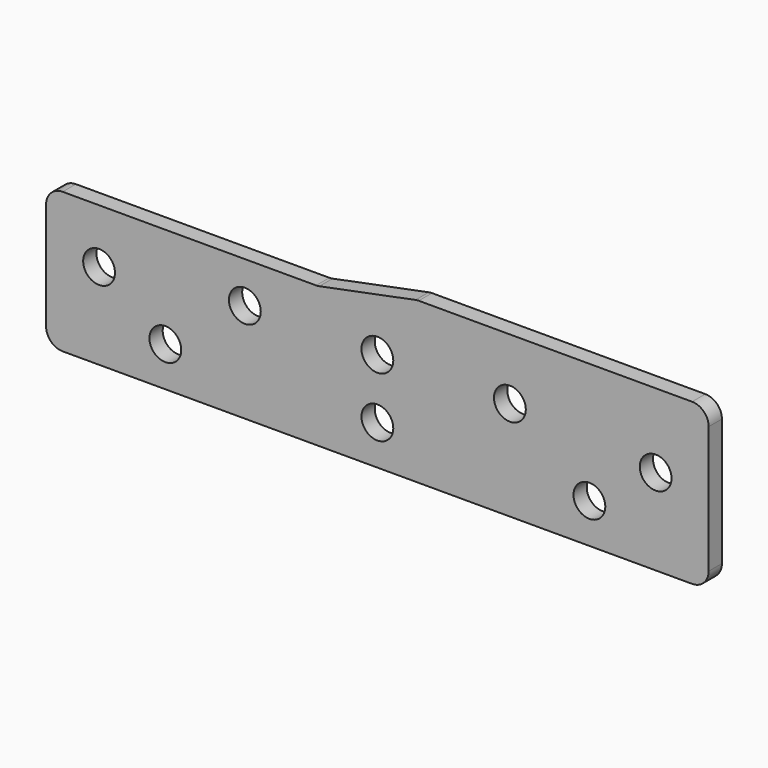
from build123d import *

# Parameters (mm, degrees)
F0_R     = 3.048
F1_DEPTH = 3.175
F2_R     = 3.175


with BuildPart() as f1:
    # F0 (on Front) → F1 (new body)
    with BuildSketch(Plane.XZ):
        with BuildLine():
            ThreePointArc((-63.5, 3.175), (-62.570064, 0.929936), (-60.325, 0))
            Line((-60.325, 0), (60.325, 0))
            ThreePointArc((60.325, 0), (62.570064, 0.929936), (63.5, 3.175))
            Line((63.5, 3.175), (63.5, 27.559))
            ThreePointArc((63.5, 27.559), (62.570064, 29.804064), (60.325, 30.734))
            Line((60.325, 30.734), (7.62, 30.734))
            Line((7.62, 30.734), (-11.43, 26.924))
            Line((-11.43, 26.924), (-60.325, 26.924))
            ThreePointArc((-60.325, 26.924), (-62.570064, 25.994064), (-63.5, 23.749))
            Line((-63.5, 23.749), (-63.5, 3.175))
        make_face()
        with Locations((-40.64, 7.62)):
            Circle(F0_R, mode=Mode.SUBTRACT)
        with Locations((0, 7.62)):
            Circle(F0_R, mode=Mode.SUBTRACT)
        with Locations((40.64, 7.62)):
            Circle(F0_R, mode=Mode.SUBTRACT)
        with Locations((-53.34, 16.51)):
            Circle(F0_R, mode=Mode.SUBTRACT)
        with Locations((-25.4, 19.05)):
            Circle(F0_R, mode=Mode.SUBTRACT)
        with Locations((0, 19.05)):
            Circle(F0_R, mode=Mode.SUBTRACT)
        with Locations((25.4, 19.05)):
            Circle(F0_R, mode=Mode.SUBTRACT)
        with Locations((53.34, 16.51)):
            Circle(F0_R, mode=Mode.SUBTRACT)
    extrude(amount=F1_DEPTH)

    # F2
    f2_edges = [f1.edges().sort_by_distance(p)[0] for p in [
        (-11.43, -1.5875, 26.924),
        (7.62, -1.5875, 30.734),
    ]]
    fillet(f2_edges, radius=F2_R)


solid = f1.part
